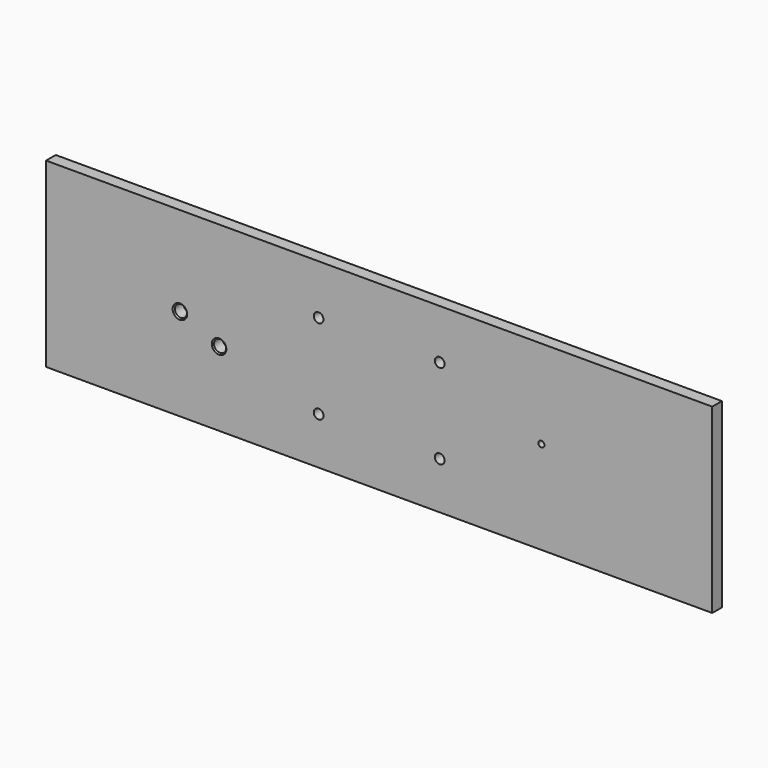
from build123d import *

# Parameters (mm, degrees)
F0_R           = 4
F1_DEPTH       = 10
F3_D           = 10
F3_CSINK_D     = 12
F3_CSINK_ANGLE = 90
F4_D           = 10
F4_CSINK_D     = 12
F4_CSINK_ANGLE = 90
F6_D           = 5


with BuildPart() as f1:
    # F0 (on Front) → F1 (new body)
    with BuildSketch(Plane.XZ):
        Polygon((0, 0), (-275, 0), (-275, -150), (275, -150), (275, 0), (50, 0), align=None)
        with Locations((-49.989153, -111.041441)):
            Circle(F0_R, mode=Mode.SUBTRACT)
        with Locations((49.989153, -111.041441)):
            Circle(F0_R, mode=Mode.SUBTRACT)
        with Locations((-49.989153, -41.041441)):
            Circle(F0_R, mode=Mode.SUBTRACT)
        with Locations((49.989153, -41.041441)):
            Circle(F0_R, mode=Mode.SUBTRACT)
    extrude(amount=F1_DEPTH)

    # F3 (through all)
    with Locations(Plane.XZ.offset(10)):
        with Locations((-132.18379, -88.733308)):
            CounterSinkHole(F3_D / 2, F3_CSINK_D / 2, counter_sink_angle=F3_CSINK_ANGLE)

    # F4 (through all)
    with Locations(Plane.XZ.offset(10)):
        with Locations((-164.520353, -73.822677)):
            CounterSinkHole(F4_D / 2, F4_CSINK_D / 2, counter_sink_angle=F4_CSINK_ANGLE)

    # F6 (through all)
    with Locations(Plane.XZ.offset(10)):
        with Locations((133.962631, -73.108293)):
            Hole(F6_D / 2)


solid = f1.part
